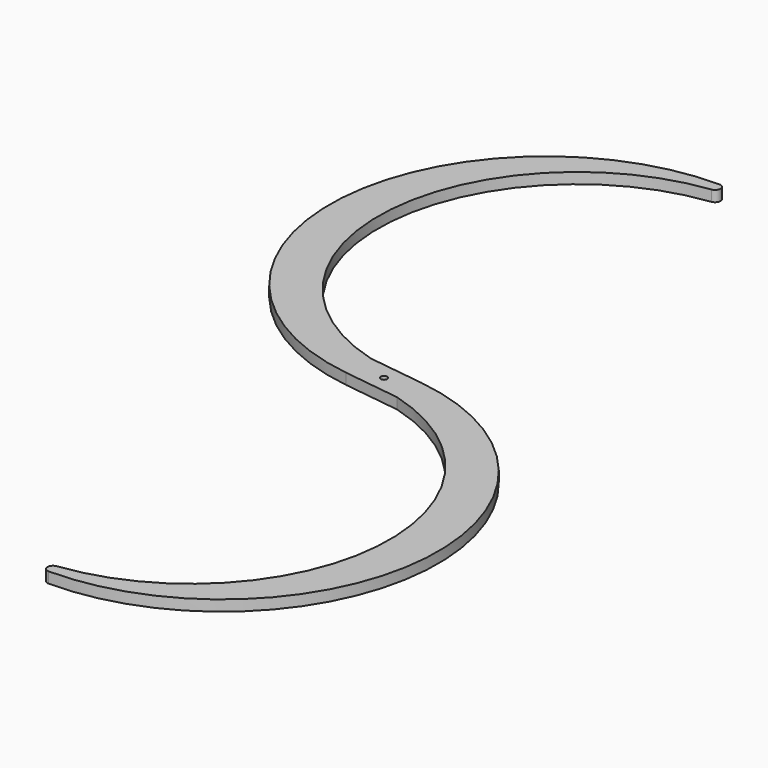
from build123d import *

# Parameters (mm, degrees)
F0_R     = 3
F1_DEPTH = 10


with BuildPart() as f1:
    # F0 (on Top) → F1 (new body)
    with BuildSketch(Plane.XY):
        with BuildLine():
            ThreePointArc((0.600467, 390.036187), (4.990945, 395.300778), (0, 400))
            ThreePointArc((0, 400), (-199.565588, 213.17483), (-26.292427, 1.735761))
            Line((-26.292427, 1.735761), (26.292427, -5.237677))
            ThreePointArc((26.292427, -5.237677), (160.690327, -196.187456), (-0.600467, -365.036187))
            ThreePointArc((-0.600467, -365.036187), (-4.990945, -370.300778), (0, -375))
            ThreePointArc((0, -375), (199.565588, -188.17483), (26.292427, 23.264239))
            Line((26.292427, 23.264239), (-26.292427, 30.237677))
            ThreePointArc((-26.292427, 30.237677), (-160.690327, 221.187456), (0.600467, 390.036187))
        make_face()
        with Locations((0, 12.5)):
            Circle(F0_R, mode=Mode.SUBTRACT)
    extrude(amount=F1_DEPTH)


solid = f1.part
